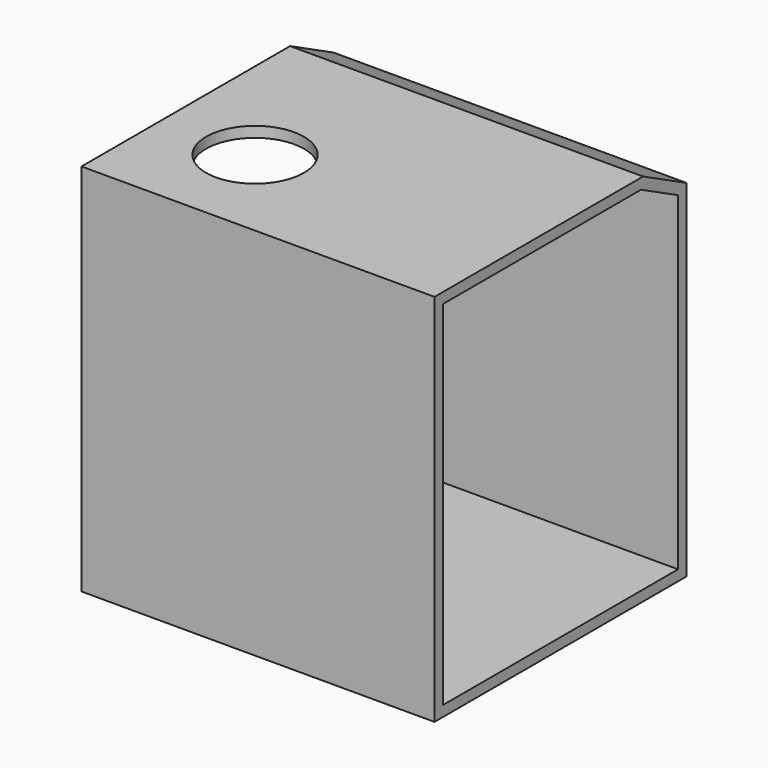
from build123d import *

# Parameters (mm, degrees)
F1_DEPTH = 63.5
F2_R     = 17.605275
F3_DEPTH = 3.81


with BuildPart() as f1:
    # F0 (on Right) → F1 (new body, symmetric)
    with BuildSketch(Plane.YZ):
        Polygon((52.27552, 120.822264), (32.734299, 130.81), (-61.044354, 130.81), (-61.044354, -3.81), (52.27552, -3.81), align=None)
        Polygon((48.46552, 0), (-57.234354, 0), (-57.234354, 127), (31.817064, 127), (48.46552, 118.490789), align=None, mode=Mode.SUBTRACT)
    extrude(amount=F1_DEPTH, both=True)

    # F2 (on face) → F3 (cut, through all)
    with BuildSketch(Plane.XY.offset(130.81)):
        with Locations((-29.868372, -25.043456)):
            Circle(F2_R)
    extrude(amount=-F3_DEPTH, mode=Mode.SUBTRACT)


solid = f1.part
